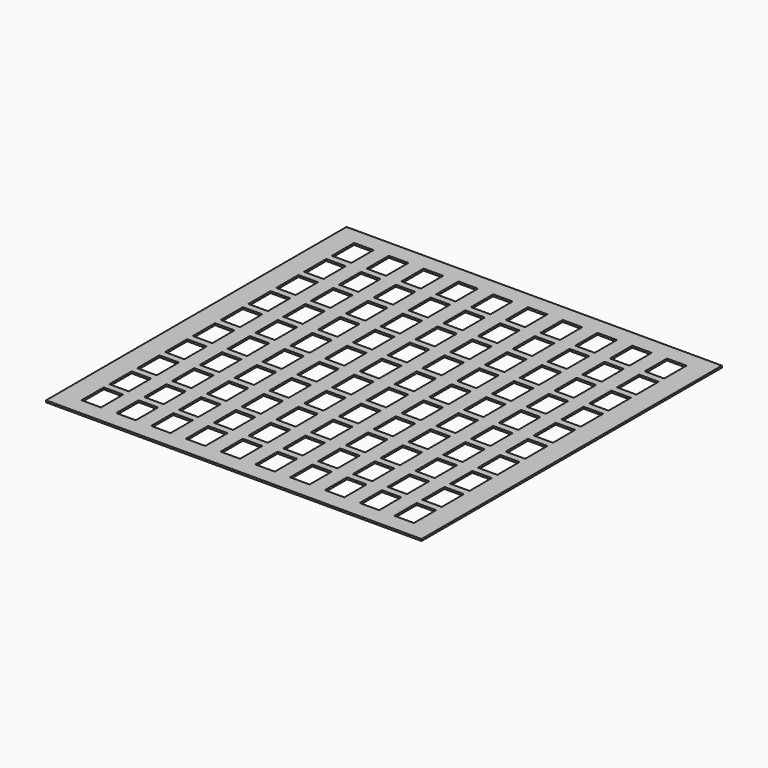
from build123d import *

# Parameters (mm, degrees)
F0_W     = 810
F0_H     = 810
F1_DEPTH = 4
F2_W     = 42
F2_H     = 60
F3_DEPTH = 4


with BuildPart() as f1:
    # F0 (on Top) → F1 (new body)
    with BuildSketch(Plane.XY):
        Rectangle(F0_W, F0_H)
    extrude(amount=F1_DEPTH)

    # F2 (on face) → F3 (cut)
    with BuildSketch(Plane.XY.offset(4)):
        with Locations((-337.5, 337.5)):
            Rectangle(F2_W, F2_H)
        with Locations((-337.5, 262.5)):
            Rectangle(F2_W, F2_H)
        with Locations((-337.5, 187.5)):
            Rectangle(F2_W, F2_H)
        with Locations((-337.5, 112.5)):
            Rectangle(F2_W, F2_H)
        with Locations((-337.5, 37.5)):
            Rectangle(F2_W, F2_H)
        with Locations((-337.5, -37.5)):
            Rectangle(F2_W, F2_H)
        with Locations((-337.5, -112.5)):
            Rectangle(F2_W, F2_H)
        with Locations((-337.5, -187.5)):
            Rectangle(F2_W, F2_H)
        with Locations((-337.5, -262.5)):
            Rectangle(F2_W, F2_H)
        with Locations((-337.5, -337.5)):
            Rectangle(F2_W, F2_H)
        with Locations((-262.5, 337.5)):
            Rectangle(F2_W, F2_H)
        with Locations((-262.5, 262.5)):
            Rectangle(F2_W, F2_H)
        with Locations((-262.5, 187.5)):
            Rectangle(F2_W, F2_H)
        with Locations((-262.5, 112.5)):
            Rectangle(F2_W, F2_H)
        with Locations((-262.5, 37.5)):
            Rectangle(F2_W, F2_H)
        with Locations((-262.5, -37.5)):
            Rectangle(F2_W, F2_H)
        with Locations((-262.5, -112.5)):
            Rectangle(F2_W, F2_H)
        with Locations((-262.5, -187.5)):
            Rectangle(F2_W, F2_H)
        with Locations((-262.5, -262.5)):
            Rectangle(F2_W, F2_H)
        with Locations((-262.5, -337.5)):
            Rectangle(F2_W, F2_H)
        with Locations((-187.5, 337.5)):
            Rectangle(F2_W, F2_H)
        with Locations((-187.5, 262.5)):
            Rectangle(F2_W, F2_H)
        with Locations((-187.5, 187.5)):
            Rectangle(F2_W, F2_H)
        with Locations((-187.5, 112.5)):
            Rectangle(F2_W, F2_H)
        with Locations((-187.5, 37.5)):
            Rectangle(F2_W, F2_H)
        with Locations((-187.5, -37.5)):
            Rectangle(F2_W, F2_H)
        with Locations((-187.5, -112.5)):
            Rectangle(F2_W, F2_H)
        with Locations((-187.5, -187.5)):
            Rectangle(F2_W, F2_H)
        with Locations((-187.5, -262.5)):
            Rectangle(F2_W, F2_H)
        with Locations((-187.5, -337.5)):
            Rectangle(F2_W, F2_H)
        with Locations((-112.5, 337.5)):
            Rectangle(F2_W, F2_H)
        with Locations((-112.5, 262.5)):
            Rectangle(F2_W, F2_H)
        with Locations((-112.5, 187.5)):
            Rectangle(F2_W, F2_H)
        with Locations((-112.5, 112.5)):
            Rectangle(F2_W, F2_H)
        with Locations((-112.5, 37.5)):
            Rectangle(F2_W, F2_H)
        with Locations((-112.5, -37.5)):
            Rectangle(F2_W, F2_H)
        with Locations((-112.5, -112.5)):
            Rectangle(F2_W, F2_H)
        with Locations((-112.5, -187.5)):
            Rectangle(F2_W, F2_H)
        with Locations((-112.5, -262.5)):
            Rectangle(F2_W, F2_H)
        with Locations((-112.5, -337.5)):
            Rectangle(F2_W, F2_H)
        with Locations((-37.5, 337.5)):
            Rectangle(F2_W, F2_H)
        with Locations((-37.5, 262.5)):
            Rectangle(F2_W, F2_H)
        with Locations((-37.5, 187.5)):
            Rectangle(F2_W, F2_H)
        with Locations((-37.5, 112.5)):
            Rectangle(F2_W, F2_H)
        with Locations((-37.5, 37.5)):
            Rectangle(F2_W, F2_H)
        with Locations((-37.5, -37.5)):
            Rectangle(F2_W, F2_H)
        with Locations((-37.5, -112.5)):
            Rectangle(F2_W, F2_H)
        with Locations((-37.5, -187.5)):
            Rectangle(F2_W, F2_H)
        with Locations((-37.5, -262.5)):
            Rectangle(F2_W, F2_H)
        with Locations((-37.5, -337.5)):
            Rectangle(F2_W, F2_H)
        with Locations((37.5, 337.5)):
            Rectangle(F2_W, F2_H)
        with Locations((37.5, 262.5)):
            Rectangle(F2_W, F2_H)
        with Locations((37.5, 187.5)):
            Rectangle(F2_W, F2_H)
        with Locations((37.5, 112.5)):
            Rectangle(F2_W, F2_H)
        with Locations((37.5, 37.5)):
            Rectangle(F2_W, F2_H)
        with Locations((37.5, -37.5)):
            Rectangle(F2_W, F2_H)
        with Locations((37.5, -112.5)):
            Rectangle(F2_W, F2_H)
        with Locations((37.5, -187.5)):
            Rectangle(F2_W, F2_H)
        with Locations((37.5, -262.5)):
            Rectangle(F2_W, F2_H)
        with Locations((37.5, -337.5)):
            Rectangle(F2_W, F2_H)
        with Locations((112.5, 337.5)):
            Rectangle(F2_W, F2_H)
        with Locations((112.5, 262.5)):
            Rectangle(F2_W, F2_H)
        with Locations((112.5, 187.5)):
            Rectangle(F2_W, F2_H)
        with Locations((112.5, 112.5)):
            Rectangle(F2_W, F2_H)
        with Locations((112.5, 37.5)):
            Rectangle(F2_W, F2_H)
        with Locations((112.5, -37.5)):
            Rectangle(F2_W, F2_H)
        with Locations((112.5, -112.5)):
            Rectangle(F2_W, F2_H)
        with Locations((112.5, -187.5)):
            Rectangle(F2_W, F2_H)
        with Locations((112.5, -262.5)):
            Rectangle(F2_W, F2_H)
        with Locations((112.5, -337.5)):
            Rectangle(F2_W, F2_H)
        with Locations((187.5, 337.5)):
            Rectangle(F2_W, F2_H)
        with Locations((187.5, 262.5)):
            Rectangle(F2_W, F2_H)
        with Locations((187.5, 187.5)):
            Rectangle(F2_W, F2_H)
        with Locations((187.5, 112.5)):
            Rectangle(F2_W, F2_H)
        with Locations((187.5, 37.5)):
            Rectangle(F2_W, F2_H)
        with Locations((187.5, -37.5)):
            Rectangle(F2_W, F2_H)
        with Locations((187.5, -112.5)):
            Rectangle(F2_W, F2_H)
        with Locations((187.5, -187.5)):
            Rectangle(F2_W, F2_H)
        with Locations((187.5, -262.5)):
            Rectangle(F2_W, F2_H)
        with Locations((187.5, -337.5)):
            Rectangle(F2_W, F2_H)
        with Locations((262.5, 337.5)):
            Rectangle(F2_W, F2_H)
        with Locations((262.5, 262.5)):
            Rectangle(F2_W, F2_H)
        with Locations((262.5, 187.5)):
            Rectangle(F2_W, F2_H)
        with Locations((262.5, 112.5)):
            Rectangle(F2_W, F2_H)
        with Locations((262.5, 37.5)):
            Rectangle(F2_W, F2_H)
        with Locations((262.5, -37.5)):
            Rectangle(F2_W, F2_H)
        with Locations((262.5, -112.5)):
            Rectangle(F2_W, F2_H)
        with Locations((262.5, -187.5)):
            Rectangle(F2_W, F2_H)
        with Locations((262.5, -262.5)):
            Rectangle(F2_W, F2_H)
        with Locations((262.5, -337.5)):
            Rectangle(F2_W, F2_H)
        with Locations((337.5, 337.5)):
            Rectangle(F2_W, F2_H)
        with Locations((337.5, 262.5)):
            Rectangle(F2_W, F2_H)
        with Locations((337.5, 187.5)):
            Rectangle(F2_W, F2_H)
        with Locations((337.5, 112.5)):
            Rectangle(F2_W, F2_H)
        with Locations((337.5, 37.5)):
            Rectangle(F2_W, F2_H)
        with Locations((337.5, -37.5)):
            Rectangle(F2_W, F2_H)
        with Locations((337.5, -112.5)):
            Rectangle(F2_W, F2_H)
        with Locations((337.5, -187.5)):
            Rectangle(F2_W, F2_H)
        with Locations((337.5, -262.5)):
            Rectangle(F2_W, F2_H)
        with Locations((337.5, -337.5)):
            Rectangle(F2_W, F2_H)
    extrude(amount=-F3_DEPTH, mode=Mode.SUBTRACT)


solid = f1.part
